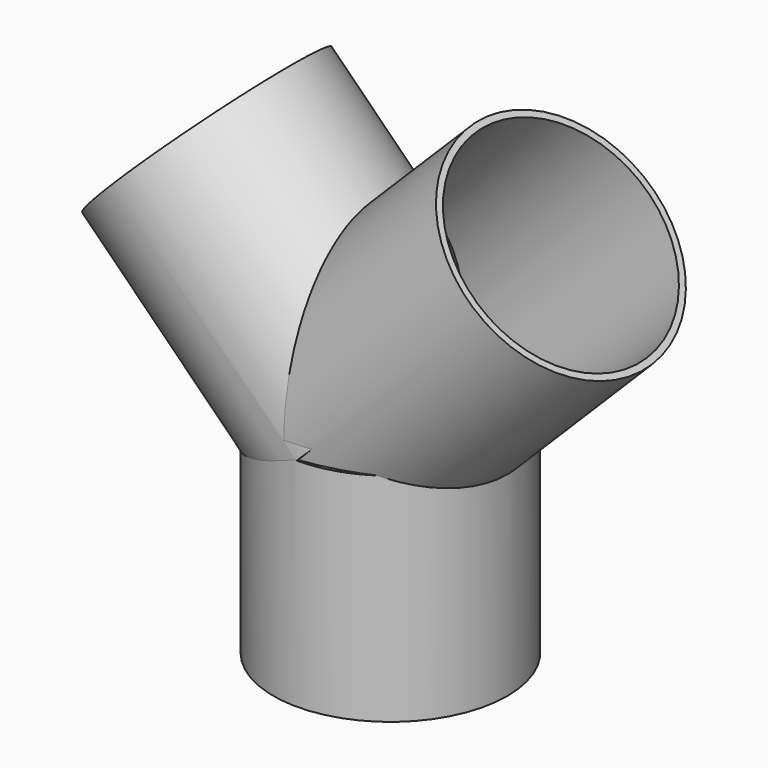
from build123d import *

# Parameters (mm, degrees)
F0_R      = 27
F1_DEPTH  = 50
F5_R      = 27
F6_DEPTH  = 60
F7_R      = 27
F8_DEPTH  = 60
F9_R      = 25.5
F10_DEPTH = 60
F11_R     = 25.5
F12_DEPTH = 60
F13_R     = 25.5
F14_DEPTH = 50.8


with BuildPart() as f1:
    # F0 (on Top) → F1 (new body)
    with BuildSketch(Plane.XY):
        Circle(F0_R)
    extrude(amount=F1_DEPTH)

    # F5 (on face) → F6 (join)
    with BuildSketch(Plane(origin=(-25, 0, 25), x_dir=(0.707107, 0, 0.707107), z_dir=(0.707107, 0, -0.707107))):
        with Locations((35.503533, 0)):
            Circle(F5_R)
    extrude(amount=-F6_DEPTH)

    # F7 (on face) → F8 (join)
    with BuildSketch(Plane(origin=(25, 0, 25), x_dir=(0, 1, 0), z_dir=(0.707107, 0, 0.707107))):
        with Locations((0, 39.730348)):
            Circle(F7_R)
    extrude(amount=F8_DEPTH)

    # F9 (on face) → F10 (cut)
    with BuildSketch(Plane(origin=(-67.426407, 0, 67.426407), x_dir=(0.707107, 0, 0.707107), z_dir=(-0.707107, 0, 0.707107))):
        with Locations((35.503533, 0)):
            Circle(F9_R)
    extrude(amount=-F10_DEPTH, mode=Mode.SUBTRACT)

    # F11 (on face) → F12 (cut)
    with BuildSketch(Plane(origin=(67.426407, 0, 67.426407), x_dir=(0, 1, 0), z_dir=(0.707107, 0, 0.707107))):
        with Locations((0, 39.730348)):
            Circle(F11_R)
    extrude(amount=-F12_DEPTH, mode=Mode.SUBTRACT)

    # F13 (on face) → F14 (cut)
    with BuildSketch(Plane(origin=(0, 0, 0), x_dir=(1, 0, 0), z_dir=(0, 0, -1))):
        Circle(F13_R)
    extrude(amount=-F14_DEPTH, mode=Mode.SUBTRACT)


solid = f1.part
